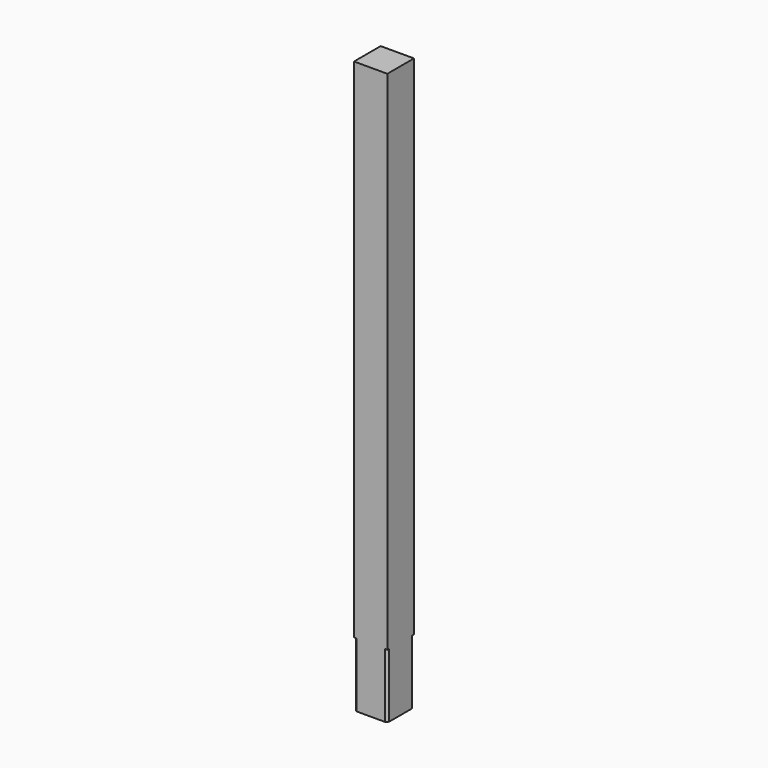
from build123d import *

# Parameters (mm, degrees)
F0_W     = 70
F0_H     = 70
F1_DEPTH = 135
F2_SIZE  = 5
F3_W     = 70
F3_H     = 70
F4_DEPTH = 1065


with BuildPart() as f1:
    # F0 (on Top) → F1 (new body)
    with BuildSketch(Plane.XY):
        Rectangle(F0_W, F0_H)
    extrude(amount=F1_DEPTH)

    # F2
    f2_edges = [f1.edges().sort_by_distance(p)[0] for p in [
        (35, -35, 67.5),
        (-35, -35, 67.5),
        (35, 35, 67.5),
        (-35, 35, 67.5),
    ]]
    chamfer(f2_edges, length=F2_SIZE)

    # F3 (on face) → F4 (join)
    with BuildSketch(Plane.XY.offset(135)):
        Rectangle(F3_W, F3_H)
    extrude(amount=F4_DEPTH)


solid = f1.part
